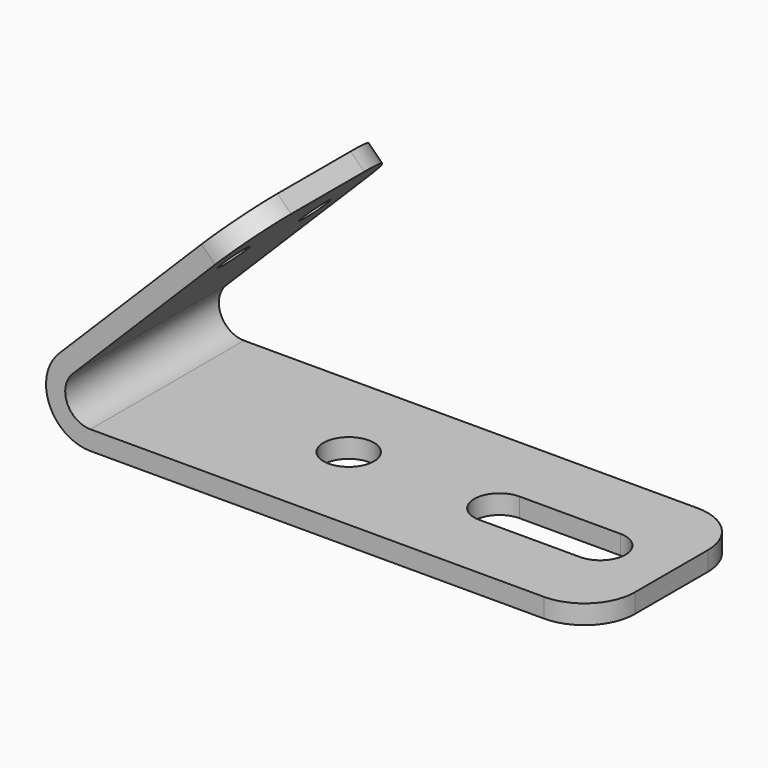
from build123d import *

# Parameters (mm, degrees)
F1_DEPTH = 483.87
F2_R     = 127
F3_R     = 127
F4_R     = 38.1
F5_DEPTH = 317.5
F6_R     = 63.5
F7_DEPTH = 193.04


with BuildPart() as f1:
    # F0 (on Front) → F1 (new body)
    with BuildSketch(Plane.XZ):
        with BuildLine():
            Line((-1270, 0), (0, 0))
            Line((0, 0), (0, 48.26))
            Line((0, 48.26), (-1270, 48.26))
            ThreePointArc((-1270, 48.26), (-1328.66635, 87.459602), (-1314.901281, 156.661281))
            Line((-1314.901281, 156.661281), (-865.888475, 605.674087))
            Line((-865.888475, 605.674087), (-900.013448, 639.79906))
            Line((-900.013448, 639.79906), (-1349.026254, 190.786254))
            ThreePointArc((-1349.026254, 190.786254), (-1373.252777, 68.9913), (-1270, 0))
        make_face()
    extrude(amount=F1_DEPTH)

    # F2
    f2_edges = [f1.edges().sort_by_distance(p)[0] for p in [
        (-882.950961, 0, 622.736573),
        (-882.950961, -483.87, 622.736573),
    ]]
    fillet(f2_edges, radius=F2_R)

    # F3
    f3_edges = [f1.edges().sort_by_distance(p)[0] for p in [
        (0, -483.87, 24.13),
        (0, 0, 24.13),
    ]]
    fillet(f3_edges, radius=F3_R)

    # F4 (on face) → F5 (cut)
    with BuildSketch(Plane(origin=(-769.906254, 0, 769.906254), x_dir=(0.707107, 0, 0.707107), z_dir=(-0.707107, 0, 0.707107))):
        with Locations((-374.499358, -114.3)):
            Circle(F4_R)
        with Locations((-374.499358, -369.57)):
            Circle(F4_R)
    extrude(amount=-F5_DEPTH, mode=Mode.SUBTRACT)

    # F6 (on face) → F7 (cut)
    with BuildSketch(Plane.XY.offset(48.26)):
        with Locations((-812.8, -241.916903)):
            Circle(F6_R)
        with BuildLine():
            Line((-177.8, -180.109518), (-431.8, -180.109518))
            ThreePointArc((-431.8, -180.109518), (-495.3, -243.609518), (-431.8, -307.109518))
            Line((-431.8, -307.109518), (-177.8, -307.109518))
            ThreePointArc((-177.8, -307.109518), (-114.3, -243.609518), (-177.8, -180.109518))
        make_face()
    extrude(amount=-F7_DEPTH, mode=Mode.SUBTRACT)


solid = f1.part
